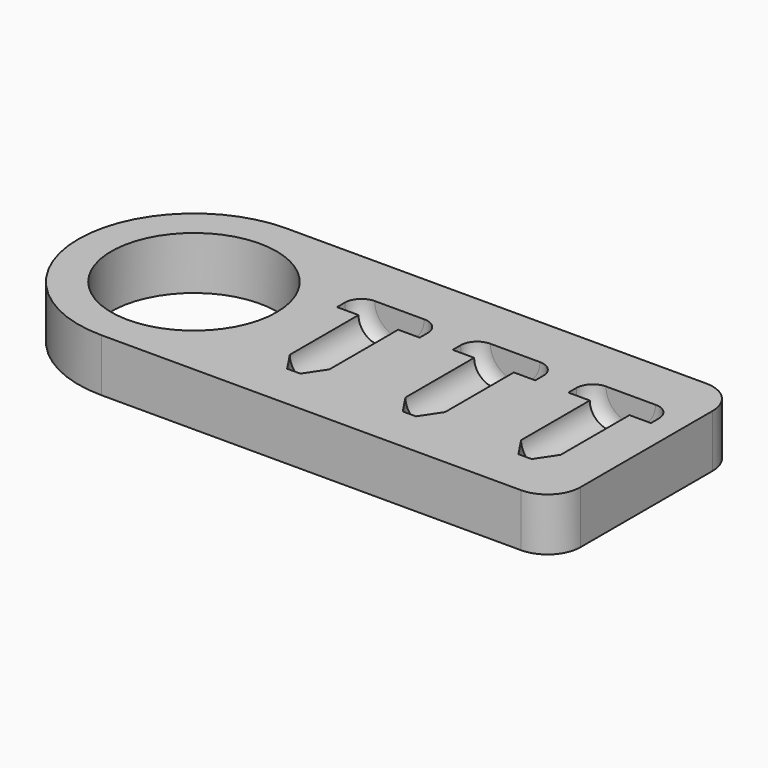
from build123d import *

# Parameters (mm, degrees)
F0_R     = 12.5
F1_DEPTH = 8


with BuildPart() as f1:
    # F0 (on Top) → F1 (new body)
    with BuildSketch(Plane.XY):
        with BuildLine():
            ThreePointArc((0, 17.5), (5.125631, 5.125631), (17.5, 0))
            Line((17.5, 0), (81, 0))
            ThreePointArc((81, 0), (84.535534, 1.464466), (86, 5))
            Line((86, 5), (86, 30))
            ThreePointArc((86, 30), (84.535534, 33.535534), (81, 35))
            Line((81, 35), (17.5, 35))
            ThreePointArc((17.5, 35), (5.125631, 29.874369), (0, 17.5))
        make_face()
        with Locations((17.5, 17.5)):
            Circle(F0_R, mode=Mode.SUBTRACT)
    extrude(amount=F1_DEPTH)

    # F2 (on face) → F3 (revolve, cut)
    with BuildSketch(Plane.XY.offset(8)):
        with BuildLine():
            Line((41, 23), (41, 7))
            Line((41, 7), (42, 7))
            Line((42, 7), (44, 10))
            Line((44, 10), (44, 23))
            Line((44, 23), (47.25, 23))
            Line((47.25, 23), (47.25, 24.5))
            ThreePointArc((47.25, 24.5), (46.517767, 26.267767), (44.75, 27))
            Line((44.75, 27), (41, 27))
            Line((41, 27), (41, 23))
        make_face()
    revolve(axis=Axis((41, 15, 8), (0, 1, 0)), mode=Mode.SUBTRACT)

    # F2 (on face) → F4 (revolve, cut)
    with BuildSketch(Plane.XY.offset(8)):
        with BuildLine():
            Line((58.5, 23), (58.5, 7))
            Line((58.5, 7), (59.5, 7))
            Line((59.5, 7), (61.5, 10))
            Line((61.5, 10), (61.5, 23))
            Line((61.5, 23), (64.75, 23))
            Line((64.75, 23), (64.75, 24.5))
            ThreePointArc((64.75, 24.5), (64.017767, 26.267767), (62.25, 27))
            Line((62.25, 27), (58.5, 27))
            Line((58.5, 27), (58.5, 23))
        make_face()
    revolve(axis=Axis((58.5, 15, 8), (0, 1, 0)), mode=Mode.SUBTRACT)

    # F2 (on face) → F5 (revolve, cut)
    with BuildSketch(Plane.XY.offset(8)):
        with BuildLine():
            Line((76, 23), (76, 7))
            Line((76, 7), (77, 7))
            Line((77, 7), (79, 10))
            Line((79, 10), (79, 23))
            Line((79, 23), (82.25, 23))
            Line((82.25, 23), (82.25, 24.5))
            ThreePointArc((82.25, 24.5), (81.517767, 26.267767), (79.75, 27))
            Line((79.75, 27), (76, 27))
            Line((76, 27), (76, 23))
        make_face()
    revolve(axis=Axis((76, 15, 8), (0, 1, 0)), mode=Mode.SUBTRACT)


solid = f1.part
